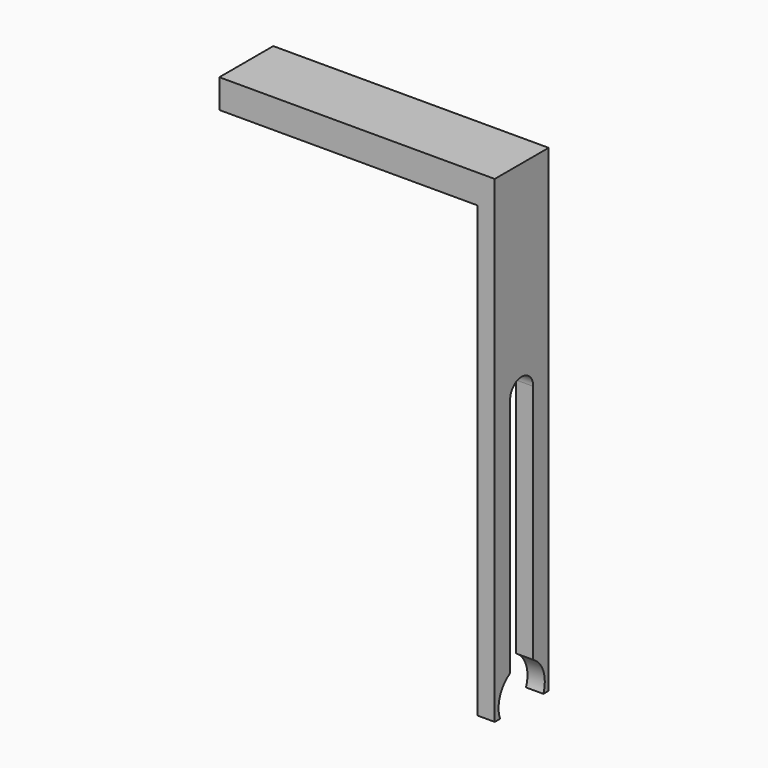
from build123d import *

# Parameters (mm, degrees)
F2_DEPTH = 1.8
F3_W     = 7
F3_H     = 3
F4_DEPTH = 26.8


with BuildPart() as f2:
    # F0 (on Right) → F2 (new body)
    with BuildSketch(Plane.YZ):
        with BuildLine():
            Line((-1.35995, -11.224572), (-1.35995, 13.775428))
            ThreePointArc((-1.35995, 13.775428), (0.14005, 15.275428), (1.64005, 13.775428))
            Line((1.64005, 13.775428), (1.64005, -11.224572))
            ThreePointArc((1.64005, -11.224572), (2.962893, -12.806991), (2.951484, -14.869473))
            Line((2.951484, -14.869473), (3.64005, -14.869473))
            Line((3.64005, -14.869473), (3.64005, 34.775428))
            Line((3.64005, 34.775428), (-3.35995, 34.775428))
            Line((-3.35995, 34.775428), (-3.35995, -14.869473))
            Line((-3.35995, -14.869473), (-2.671383, -14.869473))
            ThreePointArc((-2.671383, -14.869473), (-2.682792, -12.806991), (-1.35995, -11.224572))
        make_face()
    extrude(amount=F2_DEPTH)

    # F3 (on face) → F4 (join)
    with BuildSketch(Plane.YZ):
        with Locations((0.14005, 33.275428)):
            Rectangle(F3_W, F3_H)
    extrude(amount=-F4_DEPTH)


solid = f2.part
